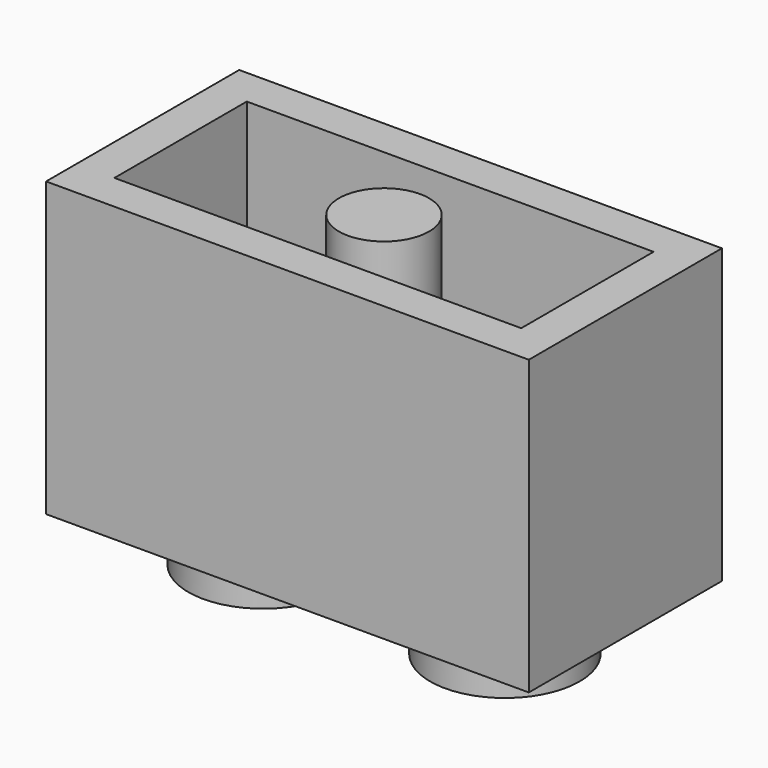
from build123d import *

# Parameters (mm, degrees)
F0_W     = 15.8242
F0_H     = 7.9121
F2_DEPTH = 9.6012
F1_R     = 2.4511
F3_DEPTH = 1.778
F4_W     = 13.335
F4_H     = 5.4229
F6_DEPTH = 7.62
F5_R     = 1.478616
F7_DEPTH = 8.128


with BuildPart() as f2:
    # F0 (on Top) → F2 (new body)
    with BuildSketch(Plane.XY):
        Rectangle(F0_W, F0_H)
    extrude(amount=F2_DEPTH)

    # F1 (on face) → F3 (join)
    with BuildSketch(Plane.XY):
        with Locations((-3.9624, 0)):
            Circle(F1_R)
        with Locations((3.9624, 0)):
            Circle(F1_R)
    extrude(amount=-F3_DEPTH)

    # F4 (on face) → F6 (cut)
    with BuildSketch(Plane.XY.offset(9.6012)):
        Rectangle(F4_W, F4_H)
    extrude(amount=-F6_DEPTH, mode=Mode.SUBTRACT)

    # F5 (on face) → F7 (join)
    with BuildSketch(Plane.XY.offset(9.6012)):
        Circle(F5_R)
    extrude(amount=-F7_DEPTH)


solid = f2.part
